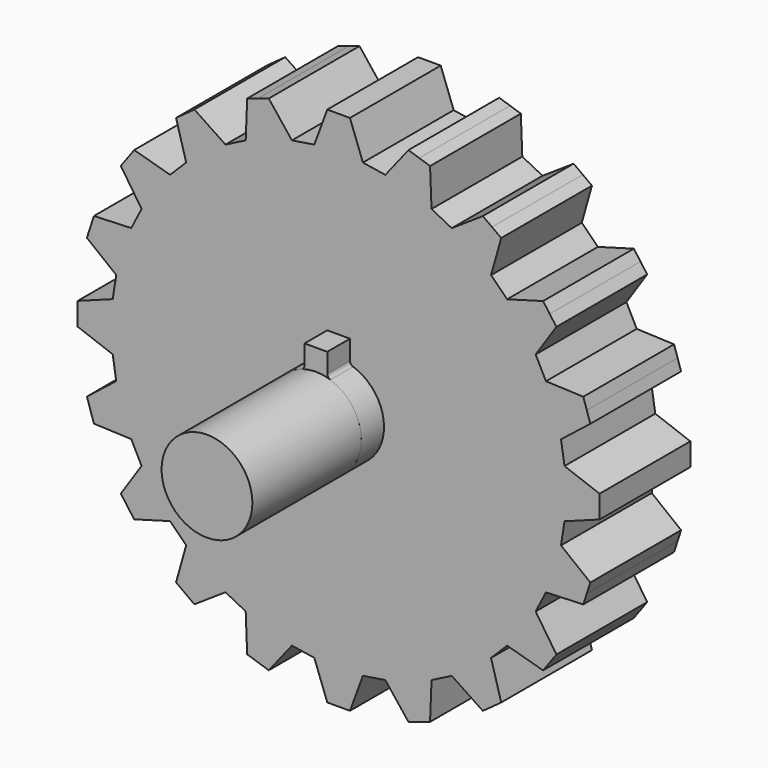
from build123d import *

# Parameters (mm, degrees)
F1_DEPTH = 25
F3_DEPTH = 25
F4_DEPTH = 37.5
F5_R     = 20
F6_DEPTH = 60


with BuildPart() as f1:
    # F0 (on Front) → F1 (new body, symmetric)
    with BuildSketch(Plane.XZ):
        Polygon((5, 115), (0, 115), (-5, 115), (-10.705004801, 99.5510063847), (-20.581888207, 97.9866617343), (-30.7816717716, 110.9165843458), (-35.5369543531, 109.3714993739), (-40.2922369346, 107.8264144021), (-40.944017353, 91.3706049175), (-49.8540825949, 86.8306999201), (-63.5502190418, 95.9758806146), (-67.5953040136, 93.0369543531), (-71.6403889855, 90.0980280917), (-67.1751442127, 74.2462120246), (-74.2462120246, 67.1751442127), (-90.0980280917, 71.6403889855), (-93.0369543531, 67.5953040136), (-95.9758806146, 63.5502190418), (-86.8306999201, 49.8540825949), (-91.3706049175, 40.944017353), (-107.8264144021, 40.2922369346), (-109.3714993739, 35.5369543531), (-110.9165843458, 30.7816717716), (-97.9866617343, 20.581888207), (-99.5510063847, 10.705004801), (-115, 5), (-115, 0), (-115, -5), (-99.5510063847, -10.705004801), (-97.9866617343, -20.581888207), (-110.9165843458, -30.7816717716), (-109.3714993739, -35.5369543531), (-107.8264144021, -40.2922369346), (-91.3706049175, -40.944017353), (-86.8306999201, -49.8540825949), (-95.9758806146, -63.5502190418), (-93.0369543531, -67.5953040136), (-90.0980280917, -71.6403889855), (-74.2462120246, -67.1751442127), (-67.1751442127, -74.2462120246), (-71.6403889855, -90.0980280917), (-67.5953040136, -93.0369543531), (-63.5502190418, -95.9758806146), (-49.8540825949, -86.8306999201), (-40.944017353, -91.3706049175), (-40.2922369346, -107.8264144021), (-35.5369543531, -109.3714993739), (-30.7816717716, -110.9165843458), (-20.581888207, -97.9866617343), (-10.705004801, -99.5510063847), (-5, -115), (0, -115), (5, -115), (10.705004801, -99.5510063847), (20.581888207, -97.9866617343), (30.7816717716, -110.9165843458), (35.5369543531, -109.3714993739), (40.2922369346, -107.8264144021), (40.944017353, -91.3706049175), (49.8540825949, -86.8306999201), (63.5502190418, -95.9758806146), (67.5953040136, -93.0369543531), (71.6403889855, -90.0980280917), (67.1751442127, -74.2462120246), (74.2462120246, -67.1751442127), (90.0980280917, -71.6403889855), (93.0369543531, -67.5953040136), (95.9758806146, -63.5502190418), (86.8306999201, -49.8540825949), (91.3706049175, -40.944017353), (107.8264144021, -40.2922369346), (109.3714993739, -35.5369543531), (110.9165843458, -30.7816717716), (97.9866617343, -20.581888207), (99.5510063847, -10.705004801), (115, -5), (115, 0), (115, 5), (99.5510063847, 10.705004801), (97.9866617343, 20.581888207), (110.9165843458, 30.7816717716), (109.3714993739, 35.5369543531), (107.8264144021, 40.2922369346), (91.3706049175, 40.944017353), (86.8306999201, 49.8540825949), (95.9758806146, 63.5502190418), (93.0369543531, 67.5953040136), (90.0980280917, 71.6403889855), (74.2462120246, 67.1751442127), (67.1751442127, 74.2462120246), (71.6403889855, 90.0980280917), (67.5953040136, 93.0369543531), (63.5502190418, 95.9758806146), (49.8540825949, 86.8306999201), (40.944017353, 91.3706049175), (40.2922369346, 107.8264144021), (35.5369543531, 109.3714993739), (30.7816717716, 110.9165843458), (20.581888207, 97.9866617343), (10.705004801, 99.5510063847), align=None)
    extrude(amount=F1_DEPTH, both=True)

    # F2 (on Front) → F3 (cut, symmetric)
    with BuildSketch(Plane.XZ):
        with BuildLine():
            ThreePointArc((-5, 20.8566536146), (-5.3763117182, 19.6889051984), (-6.3636363636, 18.9605941951))
            ThreePointArc((-6.3636363636, 18.9605941951), (0, -20), (6.3636363636, 18.9605941951))
            ThreePointArc((6.3636363636, 18.9605941951), (5.3763117182, 19.6889051984), (5, 20.8566536146))
            Line((5, 20.8566536146), (5, 29.364916731))
            Line((5, 29.364916731), (-5, 29.364916731))
            Line((-5, 29.364916731), (-5, 20.8566536146))
        make_face()
    extrude(amount=F3_DEPTH, both=True, mode=Mode.SUBTRACT)


with BuildPart() as f4:
    # F2 (on Front) → F4 (new body, symmetric)
    with BuildSketch(Plane.XZ):
        with BuildLine():
            ThreePointArc((-5, 20.8566536146), (-5.3763117182, 19.6889051984), (-6.3636363636, 18.9605941951))
            ThreePointArc((-6.3636363636, 18.9605941951), (0, -20), (6.3636363636, 18.9605941951))
            ThreePointArc((6.3636363636, 18.9605941951), (5.3763117182, 19.6889051984), (5, 20.8566536146))
            Line((5, 20.8566536146), (5, 29.364916731))
            Line((5, 29.364916731), (-5, 29.364916731))
            Line((-5, 29.364916731), (-5, 20.8566536146))
        make_face()
    extrude(amount=F4_DEPTH, both=True)


with BuildPart() as f6:
    # F5 (on face) → F6 (new body)
    with BuildSketch(Plane.XZ.offset(37.5)):
        Circle(F5_R)
    extrude(amount=F6_DEPTH)


solid = Compound([f1.part, f4.part, f6.part])
